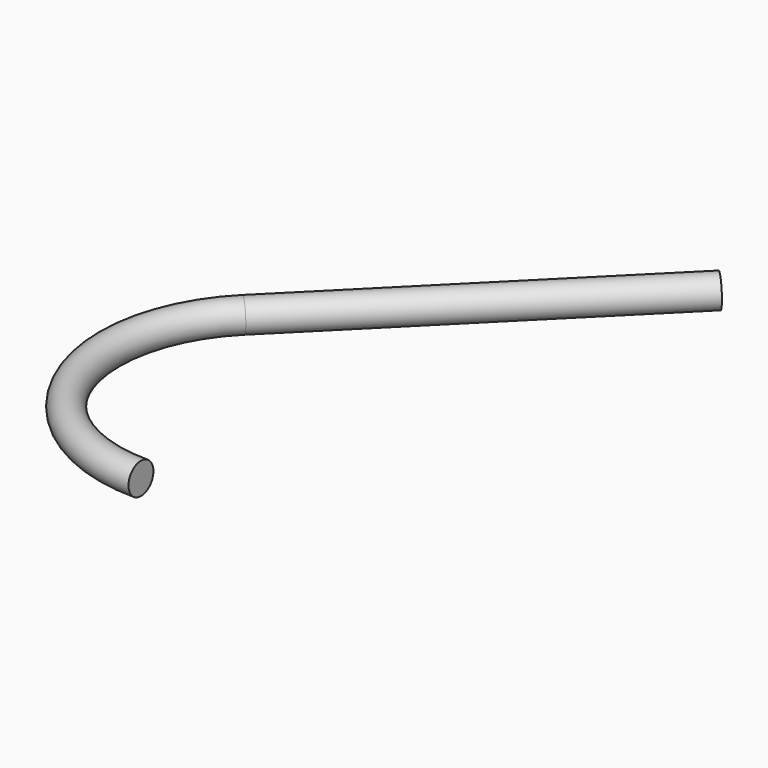
from build123d import *

# Parameters (mm, degrees)
F0_R     = 6.35
F1_ANGLE = 135
F2_R     = 6.35
F3_DEPTH = 152.4


with BuildPart() as f1:
    # F0 (on Right) → F1 (revolve)
    with BuildSketch(Plane.YZ):
        with Locations((-63.5, 0)):
            Circle(F0_R)
    revolve(axis=Axis((0, 0, -2.603583), (0, 0, -1)), revolution_arc=F1_ANGLE)

    # F2 (on face) → F3 (join)
    with BuildSketch(Plane(origin=(0, 0, 0), x_dir=(-0.707107, 0.707107, 0), z_dir=(0.707107, 0.707107, 0))):
        with Locations((63.5, 0)):
            Circle(F2_R)
    extrude(amount=F3_DEPTH)


solid = f1.part
